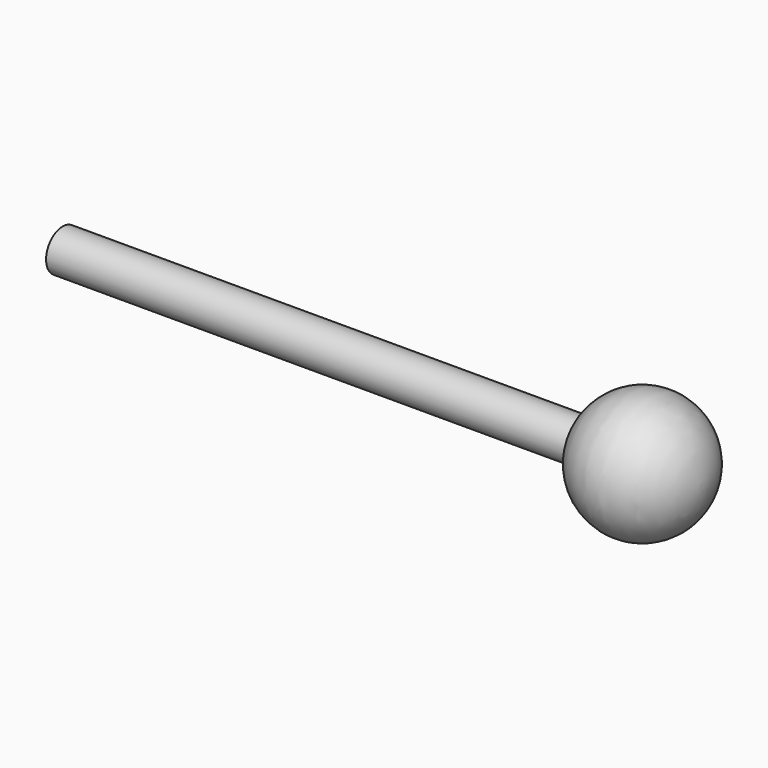
from build123d import *


with BuildPart() as f1:
    # F0 (on Front) → F1 (revolve)
    with BuildSketch(Plane.XZ):
        with BuildLine():
            Line((0, 6.35), (0, 0))
            Line((0, 0), (159.839488, 0))
            ThreePointArc((159.839488, 0), (159.024347, 3.128607), (158.75, 6.35))
            Line((158.75, 6.35), (0, 6.35))
        make_face()
        with BuildLine():
            ThreePointArc((158.75, 6.35), (159.024347, 3.128607), (159.839488, 0))
            Line((159.839488, 0), (177.8, 0))
            Line((177.8, 0), (177.8, 6.35))
            Line((177.8, 6.35), (158.75, 6.35))
        make_face()
        with BuildLine():
            Line((177.8, 0), (159.839488, 0))
            ThreePointArc((159.839488, 0), (181.021393, -12.425653), (196.85, 6.35))
            Line((196.85, 6.35), (177.8, 6.35))
            Line((177.8, 6.35), (177.8, 0))
        make_face()
    revolve(axis=Axis((88.9, 0, 6.35), (1, 0, 0)))


solid = f1.part
